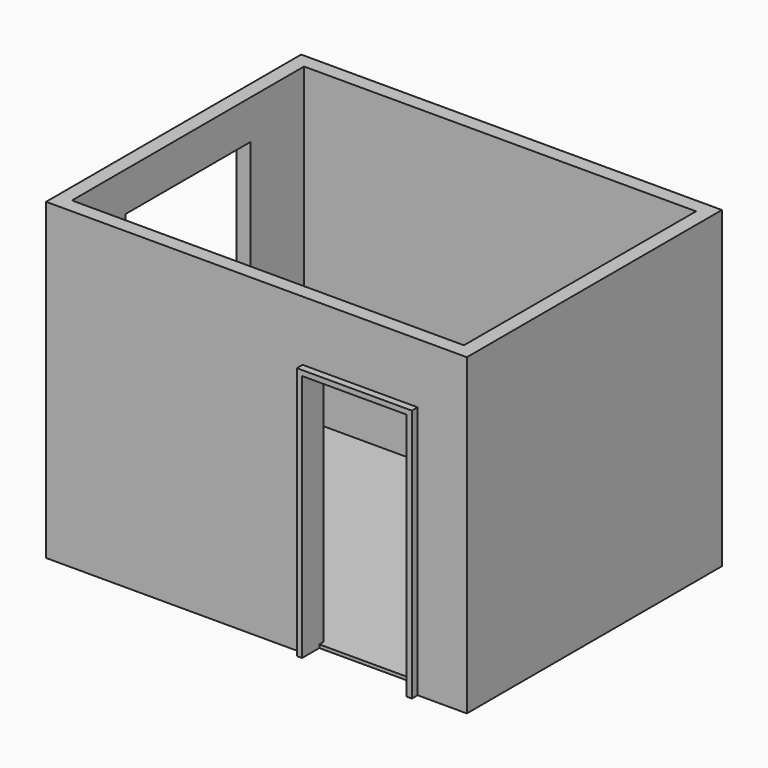
from build123d import *

# Parameters (mm, degrees)
F0_W          = 3220
F0_H          = 2440
F0_W_2        = 3000
F0_H_2        = 2220
F1_DEPTH      = 25
F2_DEPTH      = 2400
F3_W          = 800
F3_H          = 1900
F4_DEPTH      = 110
F5_DEPTH      = 55
F5_DEPTH_BACK = 150
F6_W          = 1200
F6_H          = 1200
F7_DEPTH      = 2505
F8_W          = 194.32722
F8_H          = 1200
F9_DEPTH      = 25
F10_R         = 10


with BuildPart() as f1:
    # F0 (on Top) → F1 (new body)
    with BuildSketch(Plane.XY):
        Rectangle(F0_W, F0_H)
        Rectangle(F0_W_2, F0_H_2, mode=Mode.SUBTRACT)
        Rectangle(F0_W_2, F0_H_2)
    extrude(amount=F1_DEPTH)

    # F0 (on Top) → F2 (join)
    with BuildSketch(Plane.XY):
        Rectangle(F0_W, F0_H)
        Rectangle(F0_W_2, F0_H_2, mode=Mode.SUBTRACT)
    extrude(amount=F2_DEPTH)

    # F3 (on face) → F4 (cut)
    with BuildSketch(Plane.XZ.offset(1220)):
        with Locations((792.991194, 950)):
            Rectangle(F3_W, F3_H)
    extrude(amount=-F4_DEPTH, mode=Mode.SUBTRACT)

    # F3 (on face) → F5 (join, two sides)
    with BuildSketch(Plane.XZ.offset(1220)) as f5_sk:
        Polygon((1192.991194, 1900), (1192.991194, 0), (1232.991194, 0), (1232.991194, 1940), (352.991194, 1940), (352.991194, 0), (392.991194, 0), (392.991194, 1900), align=None)
    extrude(amount=F5_DEPTH)
    extrude(f5_sk.sketch, amount=-F5_DEPTH_BACK)

    # F6 (on face) → F7 (cut)
    with BuildSketch(Plane(origin=(-1610, 0, 0), x_dir=(0, -1, 0), z_dir=(-1, 0, 0))):
        with Locations((0, 1500)):
            Rectangle(F6_W, F6_H)
    extrude(amount=-F7_DEPTH, mode=Mode.SUBTRACT)

    # F8 (on face) → F9 (join)
    with BuildSketch(Plane.XY.offset(900)):
        with Locations((-1555, 0)):
            Rectangle(F8_W, F8_H)
    extrude(amount=F9_DEPTH)

    # F10
    f10_edges = [f1.edges().sort_by_distance(p)[0] for p in [
        (-1457.83639, 0, 925),
        (-1457.83639, 0, 900),
        (-1652.16361, 0, 925),
        (-1652.16361, 0, 900),
    ]]
    fillet(f10_edges, radius=F10_R)


solid = f1.part
